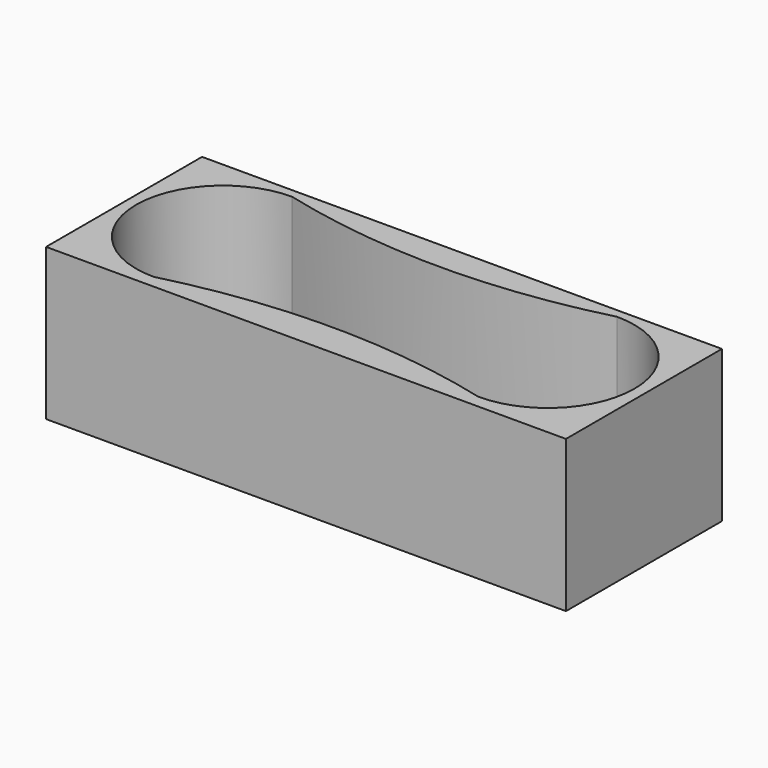
from build123d import *

# Parameters (mm, degrees)
F0_W      = 240
F0_H      = 70
F1_DEPTH  = 45
F1_FACE_W = 240
F1_FACE_H = 70
F2_DEPTH  = 45
F5_DEPTH  = 60


with BuildPart() as f1:
    # F0 (on Front) → F1 (new body)
    with BuildSketch(Plane.XZ):
        Rectangle(F0_W, F0_H)
    extrude(amount=F1_DEPTH)

    # F1_face (on face) → F2 (join)
    with BuildSketch(Plane(origin=(0, 0, 0), x_dir=(1, 0, 0), z_dir=(0, 1, 0))):
        Rectangle(F1_FACE_W, F1_FACE_H)
    extrude(amount=F2_DEPTH)

    # F4 (on offset) → F5 (cut)
    with BuildSketch(Plane.XY.offset(35)):
        with BuildLine():
            ThreePointArc((-75.18201, -39.039491), (-0.18201, -29.513242), (74.81799, -39.039491))
            ThreePointArc((74.81799, -39.039491), (114.81799, 0.960509), (74.81799, 40.960509))
            ThreePointArc((74.81799, 40.960509), (-0.18201, 31.43426), (-75.18201, 40.960509))
            ThreePointArc((-75.18201, 40.960509), (-115.18201, 0.960509), (-75.18201, -39.039491))
        make_face()
    extrude(amount=-F5_DEPTH, mode=Mode.SUBTRACT)


solid = f1.part
